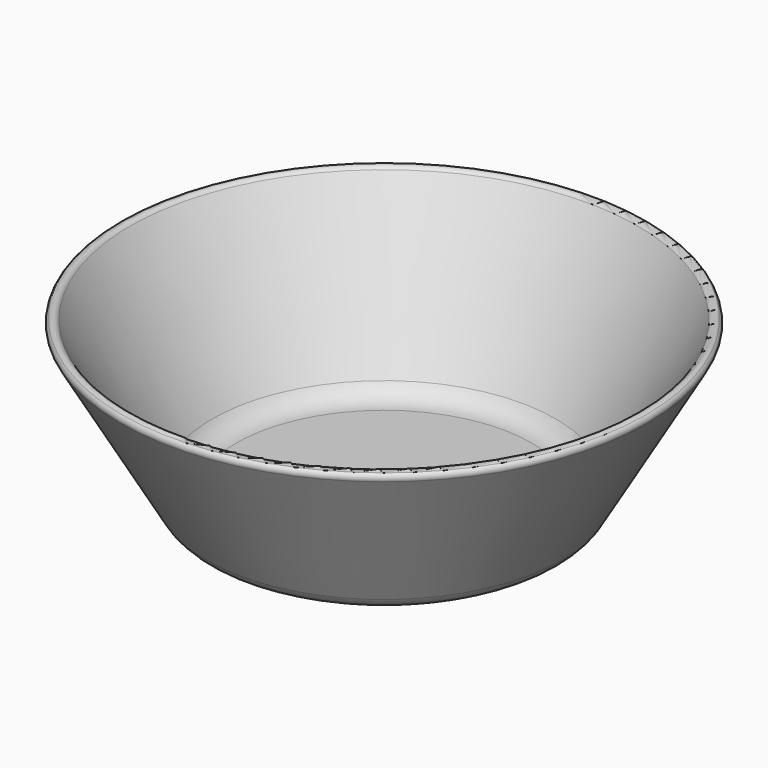
from build123d import *


with BuildPart() as f1:
    # F0 (on Front) → F1 (revolve)
    with BuildSketch(Plane.XZ):
        with BuildLine():
            Line((26.958548, 0), (0, 0))
            Line((0, 0), (0, -2))
            Line((0, -2), (28.113249, -2))
            ThreePointArc((28.113249, -2), (30.613249, -1.330127), (32.443376, 0.5))
            Line((32.443376, 0.5), (48.064948, 27.557357))
            ThreePointArc((48.064948, 27.557357), (48.180461, 28.248623), (47.81385, 28.84594))
            ThreePointArc((47.81385, 28.84594), (47.007656, 29.038895), (46.332897, 28.557357))
            Line((46.332897, 28.557357), (31.288675, 2.5))
            ThreePointArc((31.288675, 2.5), (29.458548, 0.669873), (26.958548, 0))
        make_face()
    revolve(axis=Axis((0, 0, 22.936326), (0, 0, 1)))


solid = f1.part
